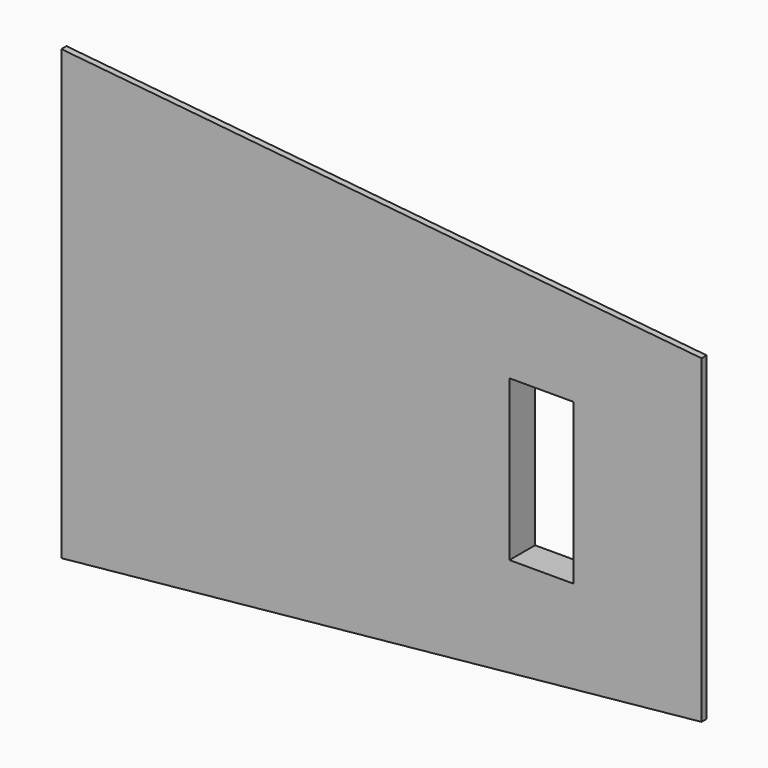
from build123d import *

# Parameters (mm, degrees)
SKETCH_W     = 10
SKETCH_H     = 25
PAD_DEPTH    = 5
CHAMFER_SIZE = 4


with BuildPart() as part:
    # Sketch → Pad (new body)
    with BuildSketch(Plane.XZ):
        Polygon((-50, -35), (50, -25), (50, 25), (-50, 35), align=None)
        with Locations((25, 0)):
            Rectangle(SKETCH_W, SKETCH_H, mode=Mode.SUBTRACT)
    extrude(amount=PAD_DEPTH)

    # Chamfer
    chamfer_edges = [part.edges().sort_by_distance(p)[0] for p in [
        (0, 0, 30),
        (50, 0, 0),
        (0, 0, -30),
        (-50, 0, 0),
    ]]
    chamfer(chamfer_edges, length=CHAMFER_SIZE)


solid = part.part
